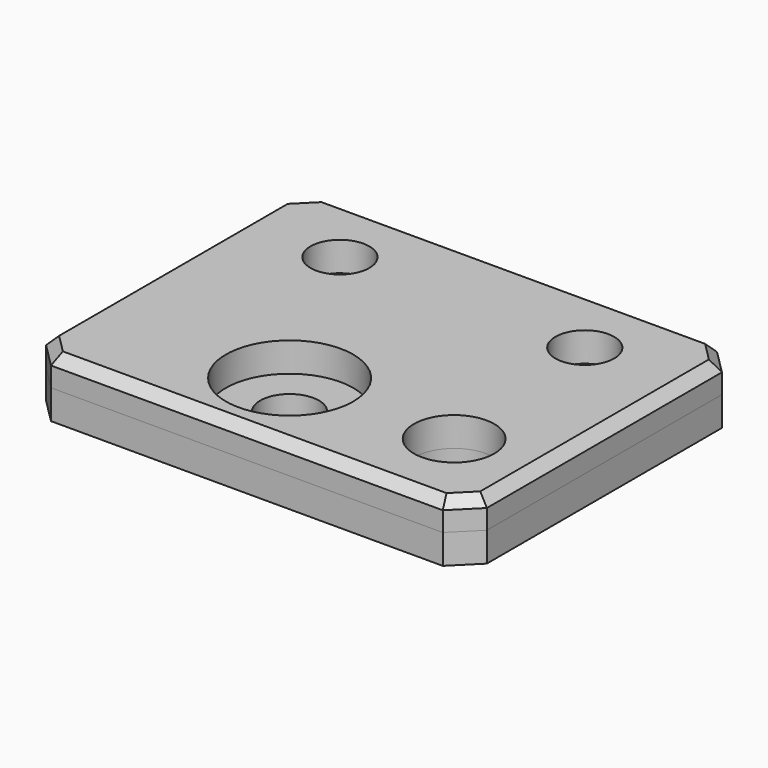
from build123d import *

# Parameters (mm, degrees)
SKETCH_R      = 4.1
SKETCH_R_2    = 3
SKETCH_R_3    = 1.5
PAD_DEPTH     = 3
SKETCH001_R   = 4.1
SKETCH001_R_2 = 6.5
SKETCH001_R_3 = 3
PAD001_DEPTH  = 3
CHAMFER_SIZE  = 1


with BuildPart() as base_pad:
    # Sketch → Pad (new body)
    with BuildSketch(Plane.XY):
        Polygon((-20, 17.5), (20, 17.5), (22.5, 15), (22.5, -15), (20, -17.5), (-20, -17.5), (-22.5, -15), (-22.5, 15), align=None)
        with Locations((14.2, -8.8)):
            Circle(SKETCH_R, mode=Mode.SUBTRACT)
        with Locations((-2.6, -8.8)):
            Circle(SKETCH_R_2, mode=Mode.SUBTRACT)
        with Locations((12.5, 10)):
            Circle(SKETCH_R_3, mode=Mode.SUBTRACT)
        with Locations((-12.5, 10)):
            Circle(SKETCH_R_3, mode=Mode.SUBTRACT)
    extrude(amount=PAD_DEPTH)


with BuildPart() as chamfer_body:
    # Sketch001 → Pad001 (new body)
    with BuildSketch(Plane.XY.offset(3)):
        Polygon((-20, 17.5), (20, 17.5), (22.5, 15), (22.5, -15), (20, -17.5), (-20, -17.5), (-22.5, -15), (-22.5, 15), align=None)
        with Locations((14.2, -8.8)):
            Circle(SKETCH001_R, mode=Mode.SUBTRACT)
        with Locations((-2.6, -8.8)):
            Circle(SKETCH001_R_2, mode=Mode.SUBTRACT)
        with Locations((12.5, 10)):
            Circle(SKETCH001_R_3, mode=Mode.SUBTRACT)
        with Locations((-12.5, 10)):
            Circle(SKETCH001_R_3, mode=Mode.SUBTRACT)
    extrude(amount=PAD001_DEPTH)

    # Chamfer
    chamfer_edges = [chamfer_body.edges().sort_by_distance(p)[0] for p in [
        (0, -17.5, 6),
        (21.25, -16.25, 6),
        (22.5, 0, 6),
        (0, 17.5, 6),
        (21.25, 16.25, 6),
        (-21.25, 16.25, 6),
        (-22.5, 0, 6),
        (-21.25, -16.25, 6),
    ]]
    chamfer(chamfer_edges, length=CHAMFER_SIZE)


solid = Compound([base_pad.part, chamfer_body.part])
